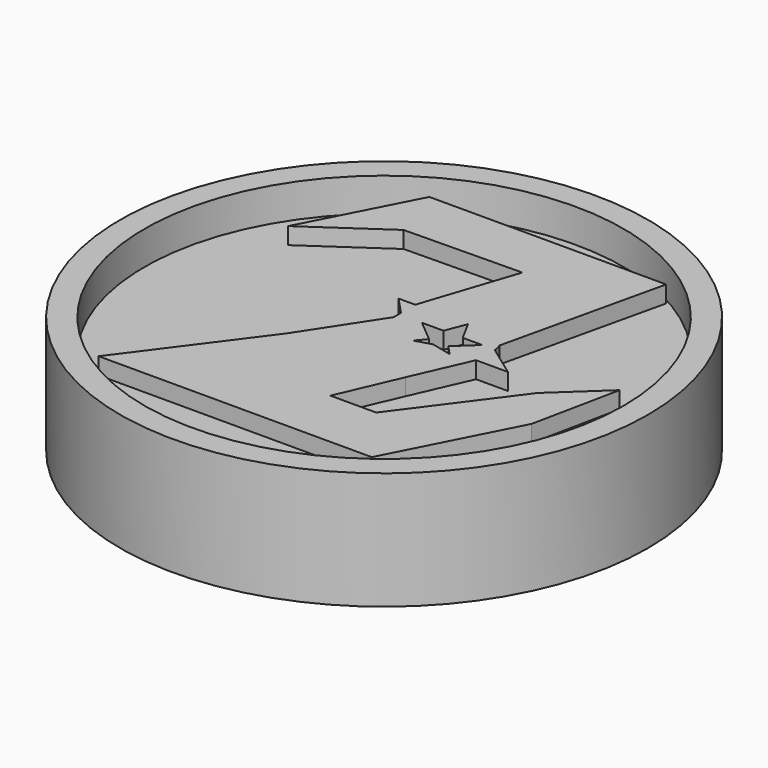
from build123d import *

# Parameters (mm, degrees)
F0_R     = 15.737452
F0_R_2   = 14.283509
F1_DEPTH = 7
F2_DEPTH = 5
F4_DEPTH = 6
F5_R     = 0.445192
F6_DEPTH = 57


with BuildPart() as f1:
    # F0 (on Top) → F1 (new body)
    with BuildSketch(Plane.XY):
        Circle(F0_R)
        Circle(F0_R_2, mode=Mode.SUBTRACT)
    extrude(amount=F1_DEPTH)


with BuildPart() as f2:
    # F0 (on Top) → F2 (new body)
    with BuildSketch(Plane.XY):
        Circle(F0_R_2)
    extrude(amount=F2_DEPTH)

    # F3 (on Top) → F4 (join)
    with BuildSketch(Plane.XY):
        with BuildLine():
            Line((-3.721197, -2.593628), (-9.12579, -9.868134))
            Line((-9.12579, -9.868134), (7.159184, -9.868134))
            Line((7.159184, -9.868134), (10.879102, -2.593628))
            Line((10.879102, -2.593628), (11.953744, 2.614258))
            Line((11.953744, 2.614258), (9.143141, 0))
            Line((9.143141, 0), (4.51391, -6.230881))
            Line((4.51391, -6.230881), (1.785969, -6.230881))
            Line((1.785969, -6.230881), (3.356602, -2.593628))
            Line((3.356602, -2.593628), (4.844569, 0.795631))
            Line((4.844569, 0.795631), (6.749675, 0.795631))
            Line((6.749675, 0.795631), (4.888051, 2.140685))
            ThreePointArc((4.888051, 2.140685), (4.905901, 1.964548), (4.91186, 1.787609))
            ThreePointArc((4.91186, 1.787609), (2.281958, -0.842292), (-0.347943, 1.787609))
            Line((-0.347943, 1.787609), (-0.859305, 2.335319))
            Line((-0.859305, 2.335319), (-0.859305, 1.787609))
            Line((-0.859305, 1.787609), (-3.721197, -2.593628))
        make_face()
        with BuildLine():
            Line((-1.849496, 3.395893), (-0.859305, 2.335319))
            Line((-0.859305, 2.335319), (-0.347943, 1.787609))
            ThreePointArc((-0.347943, 1.787609), (1.849861, 4.381771), (4.769871, 2.64006))
            Line((4.769871, 2.64006), (6.985019, 12.291914))
            Line((6.985019, 12.291914), (5.902433, 12.291914))
            Line((5.902433, 12.291914), (-6.335478, 12.291914))
            Line((-6.335478, 12.291914), (-7.13565, 12.291914))
            Line((-7.13565, 12.291914), (-10.430472, 5.890545))
            Line((-10.430472, 5.890545), (-5.993844, 8.943698))
            Line((-5.993844, 8.943698), (1.007269, 9.044161))
            Line((1.007269, 9.044161), (-0.859305, 3.395893))
            Line((-0.859305, 3.395893), (-1.849496, 3.395893))
        make_face()
        with BuildLine():
            ThreePointArc((4.769871, 2.64006), (1.849861, 4.381771), (-0.347943, 1.787609))
            ThreePointArc((-0.347943, 1.787609), (2.281958, -0.842292), (4.91186, 1.787609))
            ThreePointArc((4.91186, 1.787609), (4.905901, 1.964548), (4.888051, 2.140685))
            Line((4.888051, 2.140685), (4.844569, 2.172102))
            Line((4.844569, 2.172102), (4.866317, 2.274924))
            ThreePointArc((4.866317, 2.274924), (4.824657, 2.459225), (4.769871, 2.64006))
        make_face()
        Polygon((1.320209, 0.509559), (1.80744, 1.089517), (0.518823, 2.172102), (1.80744, 2.172102), (2.281958, 3.395893), (2.95428, 2.172102), (4.113815, 2.172102), (2.95428, 1.089517), (3.495751, 0.509559), (2.281958, 0.795631), align=None, mode=Mode.SUBTRACT)
        with BuildLine():
            ThreePointArc((4.888051, 2.140685), (4.878052, 2.207945), (4.866317, 2.274924))
            Line((4.866317, 2.274924), (4.844569, 2.172102))
            Line((4.844569, 2.172102), (4.888051, 2.140685))
        make_face()
    extrude(amount=F4_DEPTH)

    # F5 (on Top) → F6 (cut)
    with BuildSketch(Plane.XY):
        with Locations((0, 13.288498)):
            Circle(F5_R)
    extrude(amount=F6_DEPTH, mode=Mode.SUBTRACT)


solid = Compound([f1.part, f2.part])
